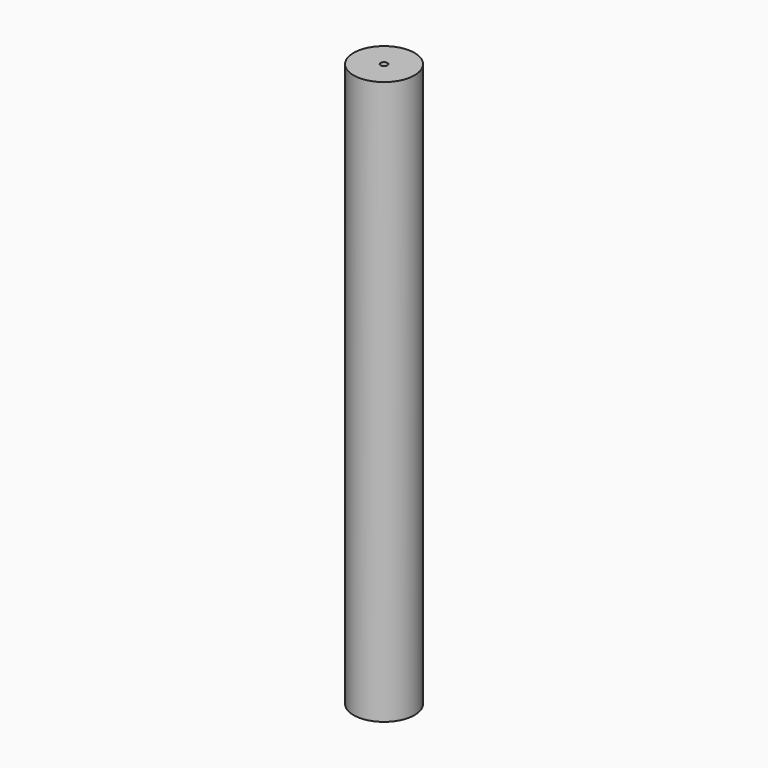
from build123d import *

# Parameters (mm, degrees)
F0_R     = 2.25
F0_R_2   = 2
F0_R_3   = 0.25
F1_DEPTH = 20.8


with BuildPart() as f1:
    # F0 (on Top) → F1 (new body, symmetric)
    with BuildSketch(Plane.XY):
        Circle(F0_R)
        Circle(F0_R_2, mode=Mode.SUBTRACT)
        Circle(F0_R_2)
        Circle(F0_R_3, mode=Mode.SUBTRACT)
    extrude(amount=F1_DEPTH, both=True)


solid = f1.part
